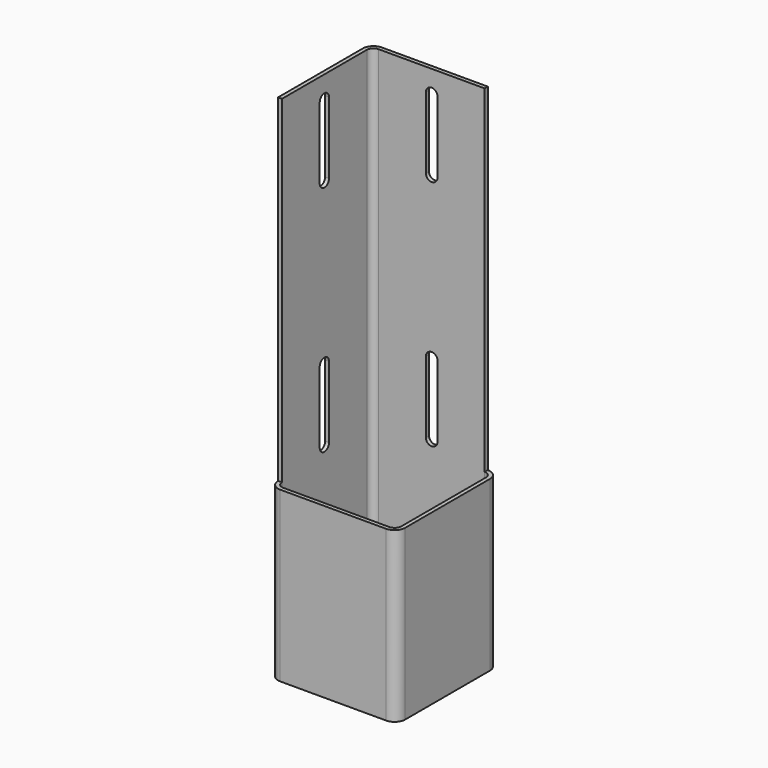
from build123d import *

# Parameters (mm, degrees)
F1_DEPTH = 304.8
F2_T     = -2.3622
F4_DEPTH = 203.2
F6_DEPTH = 76.498957
F8_DEPTH = 76.498957


with BuildPart() as f1:
    # F0 (on Top) → F1 (new body)
    with BuildSketch(Plane.XY):
        with BuildLine():
            Line((-31.898979, -38.248979), (31.898979, -38.248979))
            ThreePointArc((31.898979, -38.248979), (36.389107, -36.389107), (38.248979, -31.898979))
            Line((38.248979, -31.898979), (38.248979, 31.898979))
            ThreePointArc((38.248979, 31.898979), (36.389107, 36.389107), (31.898979, 38.248979))
            Line((31.898979, 38.248979), (-31.898979, 38.248979))
            ThreePointArc((-31.898979, 38.248979), (-36.389107, 36.389107), (-38.248979, 31.898979))
            Line((-38.248979, 31.898979), (-38.248979, -31.898979))
            ThreePointArc((-38.248979, -31.898979), (-36.389107, -36.389107), (-31.898979, -38.248979))
        make_face()
    extrude(amount=F1_DEPTH)

    # F2
    f2_openings = [f1.faces().sort_by_distance(p)[0] for p in [
        (0, 0, 304.8),
        (0, 0, 0),
    ]]
    offset(amount=F2_T, openings=f2_openings)

    # F3 (on face) → F4 (cut)
    with BuildSketch(Plane.XY.offset(304.8)):
        Polygon((-35.886779, -31.898979), (-38.248979, -31.898979), (-38.248979, -60.503662), (63.648979, -60.503662), (63.648979, 38.248979), (31.898979, 38.248979), (31.898979, 35.886779), align=None)
    extrude(amount=-F4_DEPTH, mode=Mode.SUBTRACT)

    # F5 (on face) → F6 (cut, through all)
    with BuildSketch(Plane(origin=(-38.248979, 0, 0), x_dir=(0, -1, 0), z_dir=(-1, 0, 0))):
        with BuildLine():
            ThreePointArc((-3.5, 248.3), (0, 244.8), (3.5, 248.3))
            Line((3.5, 248.3), (3.5, 291.3))
            ThreePointArc((3.5, 291.3), (0, 294.8), (-3.5, 291.3))
            Line((-3.5, 291.3), (-3.5, 248.3))
        make_face()
        with BuildLine():
            ThreePointArc((-3.5, 108.299998), (2e-06, 104.799998), (3.5, 108.300002))
            Line((3.5, 108.300002), (3.5, 151.300002))
            ThreePointArc((3.5, 151.300002), (-2e-06, 154.799998), (-3.5, 151.299998))
            Line((-3.5, 151.299998), (-3.5, 108.299998))
        make_face()
    extrude(amount=-F6_DEPTH, mode=Mode.SUBTRACT)

    # F7 (on face) → F8 (cut, through all)
    with BuildSketch(Plane(origin=(0, 38.248979, 0), x_dir=(-1, 0, 0), z_dir=(0, 1, 0))):
        with BuildLine():
            ThreePointArc((-3.5, 248.300001), (0, 244.800001), (3.5, 248.300001))
            Line((3.5, 248.300001), (3.5, 291.299999))
            ThreePointArc((3.5, 291.299999), (0, 294.800001), (-3.5, 291.299999))
            Line((-3.5, 291.299999), (-3.5, 248.300001))
        make_face()
        with BuildLine():
            ThreePointArc((-3.5, 108.300001), (0, 104.800001), (3.5, 108.300001))
            Line((3.5, 108.300001), (3.5, 151.299999))
            ThreePointArc((3.5, 151.299999), (0, 154.799999), (-3.5, 151.299999))
            Line((-3.5, 151.299999), (-3.5, 108.300001))
        make_face()
    extrude(amount=-F8_DEPTH, mode=Mode.SUBTRACT)


solid = f1.part
